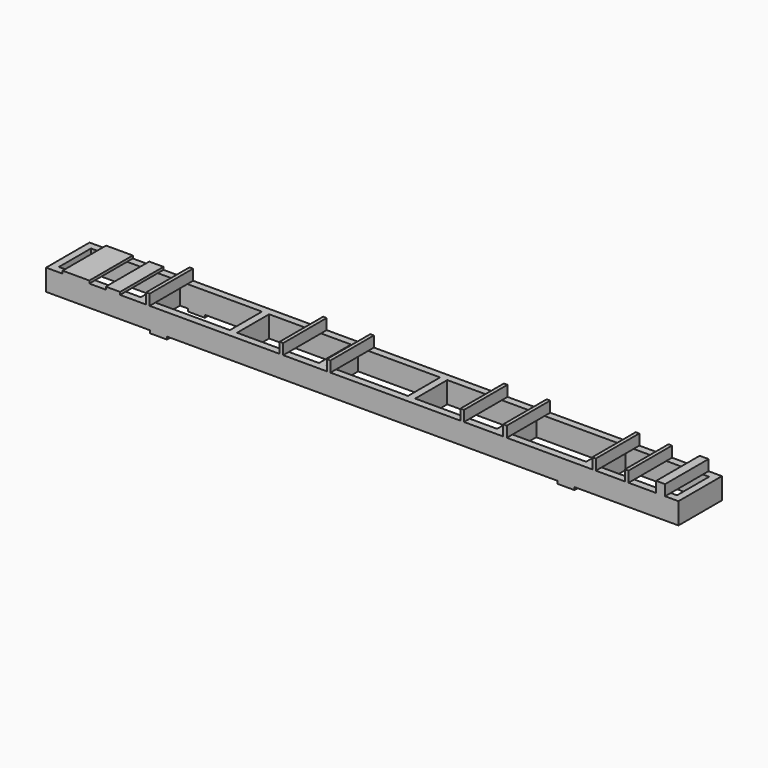
from build123d import *

# Parameters (mm, degrees)
F0_W     = 7100
F0_H     = 610
F0_W_2   = 920
F0_H_2   = 450
F0_W_3   = 940
F1_DEPTH = 240
F2_W     = 190.6431913376
F2_H     = 80
F3_DEPTH = 30
F4_W     = 100
F4_H     = 80
F4_H_2   = 450
F4_W_2   = 40
F5_DEPTH = 120
F4_W_3   = 300
F4_W_4   = 160
F6_DEPTH = 30


with BuildPart() as f1:
    # F0 (on Top) → F1 (new body)
    with BuildSketch(Plane.XY):
        with Locations((3550, 305)):
            Rectangle(F0_W, F0_H)
        with Locations((540, 305)):
            Rectangle(F0_W_2, F0_H_2, mode=Mode.SUBTRACT)
        with Locations((1540, 305)):
            Rectangle(F0_W_2, F0_H_2, mode=Mode.SUBTRACT)
        with Locations((2540, 305)):
            Rectangle(F0_W_2, F0_H_2, mode=Mode.SUBTRACT)
        with Locations((3540, 305)):
            Rectangle(F0_W_2, F0_H_2, mode=Mode.SUBTRACT)
        with Locations((4540, 305)):
            Rectangle(F0_W_2, F0_H_2, mode=Mode.SUBTRACT)
        with Locations((5540, 305)):
            Rectangle(F0_W_2, F0_H_2, mode=Mode.SUBTRACT)
        with Locations((6550, 305)):
            Rectangle(F0_W_3, F0_H_2, mode=Mode.SUBTRACT)
    extrude(amount=F1_DEPTH)

    # F2 (on face) → F3 (join)
    with BuildSketch(Plane(origin=(0, 0, 0), x_dir=(1, 0, 0), z_dir=(0, 0, -1))):
        with Locations((1262.8215956688, -40)):
            Rectangle(F2_W, F2_H)
        with Locations((1262.8215956688, -570)):
            Rectangle(F2_W, F2_H)
        with Locations((5837.1784043312, -570)):
            Rectangle(F2_W, F2_H)
        with Locations((5837.1784043312, -40)):
            Rectangle(F2_W, F2_H)
    extrude(amount=F3_DEPTH)

    # F4 (on face) → F5 (join)
    with BuildSketch(Plane.XY.offset(240)):
        with Locations((6900, 570)):
            Rectangle(F4_W, F4_H)
        with Locations((6900, 305)):
            Rectangle(F4_W, F4_H_2)
        with Locations((6900, 40)):
            Rectangle(F4_W, F4_H)
        with Locations((6520, 40)):
            Rectangle(F4_W_2, F4_H)
        with Locations((6520, 305)):
            Rectangle(F4_W_2, F4_H_2)
        with Locations((6520, 570)):
            Rectangle(F4_W_2, F4_H)
        with Locations((6152.5, 570)):
            Rectangle(F4_W_2, F4_H)
        with Locations((6152.5, 305)):
            Rectangle(F4_W_2, F4_H_2)
        with Locations((6152.5, 40)):
            Rectangle(F4_W_2, F4_H)
        with Locations((5152.5, 40)):
            Rectangle(F4_W_2, F4_H)
        with Locations((5152.5, 305)):
            Rectangle(F4_W_2, F4_H_2)
        with Locations((5152.5, 570)):
            Rectangle(F4_W_2, F4_H)
        with Locations((4672.5, 570)):
            Rectangle(F4_W_2, F4_H)
        with Locations((4672.5, 305)):
            Rectangle(F4_W_2, F4_H_2)
        with Locations((4672.5, 40)):
            Rectangle(F4_W_2, F4_H)
        with Locations((3172.5, 40)):
            Rectangle(F4_W_2, F4_H)
        with Locations((3172.5, 305)):
            Rectangle(F4_W_2, F4_H_2)
        with Locations((3172.5, 570)):
            Rectangle(F4_W_2, F4_H)
        with Locations((2642.5, 40)):
            Rectangle(F4_W_2, F4_H)
        with Locations((2642.5, 305)):
            Rectangle(F4_W_2, F4_H_2)
        with Locations((2642.5, 570)):
            Rectangle(F4_W_2, F4_H)
        with Locations((1142.5, 40)):
            Rectangle(F4_W_2, F4_H)
        with Locations((1142.5, 305)):
            Rectangle(F4_W_2, F4_H_2)
        with Locations((1142.5, 570)):
            Rectangle(F4_W_2, F4_H)
    extrude(amount=F5_DEPTH)

    # F4 (on face) → F6 (join)
    with BuildSketch(Plane.XY.offset(240)):
        with Locations((335.5, 570)):
            Rectangle(F4_W_3, F4_H)
        with Locations((335.5, 305)):
            Rectangle(F4_W_3, F4_H_2)
        with Locations((335.5, 40)):
            Rectangle(F4_W_3, F4_H)
        with Locations((750.5, 40)):
            Rectangle(F4_W_4, F4_H)
        with Locations((750.5, 305)):
            Rectangle(F4_W_4, F4_H_2)
        with Locations((750.5, 570)):
            Rectangle(F4_W_4, F4_H)
    extrude(amount=F6_DEPTH)


solid = f1.part
